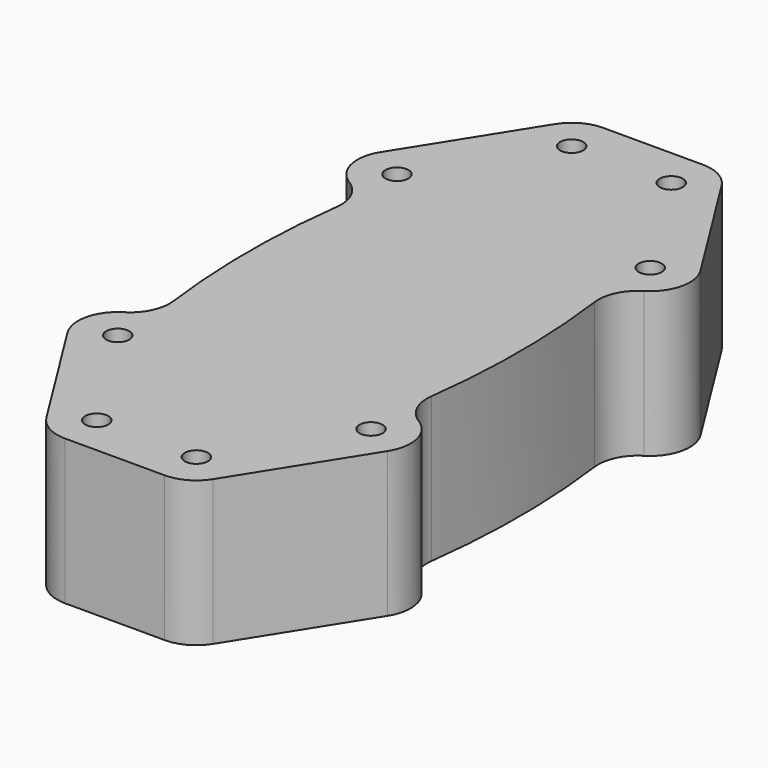
from build123d import *

# Parameters (mm, degrees)
F2_R     = 1.75
F3_DEPTH = 22


with BuildPart() as f3:
    # F2 (on Top) → F3 (new body)
    with BuildSketch(Plane.XY):
        with BuildLine():
            ThreePointArc((-22.350349, -21.356076), (-25.044529, -25.102889), (-24.281562, -29.654272))
            Line((-24.281562, -29.654272), (-12.633069, -48.199423))
            ThreePointArc((-12.633069, -48.199423), (-10.454945, -50.25916), (-7.552206, -51.008055))
            Line((-7.552206, -51.008055), (7.552206, -51.008055))
            ThreePointArc((7.552206, -51.008055), (10.454945, -50.25916), (12.633069, -48.199423))
            Line((12.633069, -48.199423), (24.281562, -29.654272))
            ThreePointArc((24.281562, -29.654272), (25.044529, -25.102889), (22.350349, -21.356076))
            ThreePointArc((22.350349, -21.356076), (20.082822, -18.828818), (19.550103, -15.475473))
            ThreePointArc((19.550103, -15.475473), (20.552163, 0), (19.550103, 15.475473))
            ThreePointArc((19.550103, 15.475473), (20.082822, 18.828818), (22.350349, 21.356076))
            ThreePointArc((22.350349, 21.356076), (25.044529, 25.102889), (24.281562, 29.654272))
            Line((24.281562, 29.654272), (12.633069, 48.199423))
            ThreePointArc((12.633069, 48.199423), (10.454945, 50.25916), (7.552206, 51.008055))
            Line((7.552206, 51.008055), (-7.552206, 51.008055))
            ThreePointArc((-7.552206, 51.008055), (-10.454945, 50.25916), (-12.633069, 48.199423))
            Line((-12.633069, 48.199423), (-24.281562, 29.654272))
            ThreePointArc((-24.281562, 29.654272), (-25.044529, 25.102889), (-22.350349, 21.356076))
            ThreePointArc((-22.350349, 21.356076), (-20.082822, 18.828818), (-19.550103, 15.475473))
            ThreePointArc((-19.550103, 15.475473), (-20.552163, 0), (-19.550103, -15.475473))
            ThreePointArc((-19.550103, -15.475473), (-20.082822, -18.828818), (-22.350349, -21.356076))
        make_face()
        with Locations((-19.200698, -26.462905)):
            Circle(F2_R, mode=Mode.SUBTRACT)
        with Locations((-7.552206, -45.008055)):
            Circle(F2_R, mode=Mode.SUBTRACT)
        with Locations((7.552206, -45.008055)):
            Circle(F2_R, mode=Mode.SUBTRACT)
        with Locations((19.200698, -26.462905)):
            Circle(F2_R, mode=Mode.SUBTRACT)
        with Locations((-19.200698, 26.462905)):
            Circle(F2_R, mode=Mode.SUBTRACT)
        with Locations((-7.552206, 45.008055)):
            Circle(F2_R, mode=Mode.SUBTRACT)
        with Locations((7.552206, 45.008055)):
            Circle(F2_R, mode=Mode.SUBTRACT)
        with Locations((19.200698, 26.462905)):
            Circle(F2_R, mode=Mode.SUBTRACT)
    extrude(amount=F3_DEPTH)


solid = f3.part
